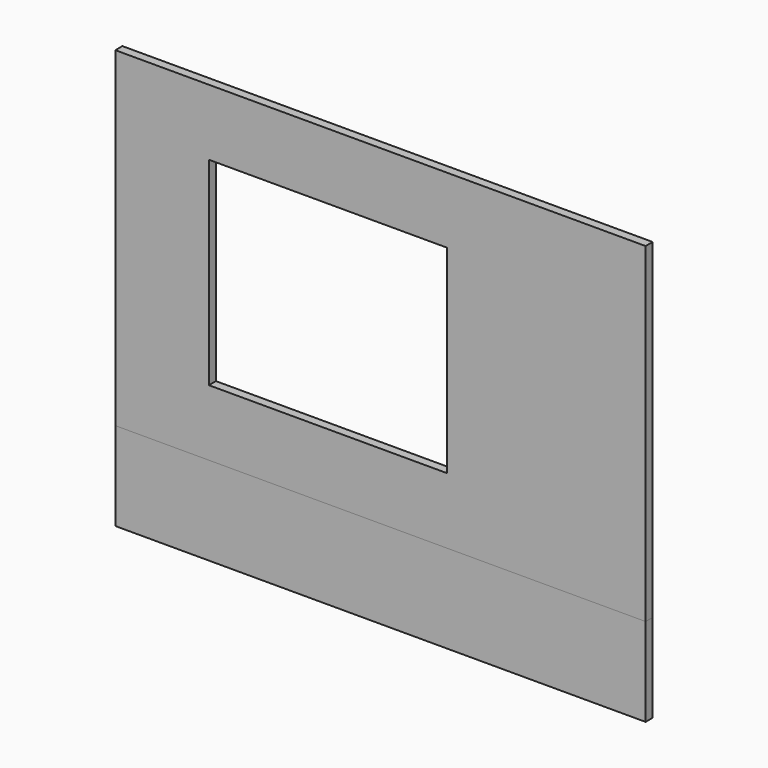
from build123d import *

# Parameters (mm, degrees)
F0_W     = 3000
F0_H     = 1870
F1_DEPTH = 50
F2_W     = 1348
F2_H     = 1123
F3_DEPTH = 50
F4_DEPTH = 500


with BuildPart() as f1:
    # F0 (on Front) → F1 (new body)
    with BuildSketch(Plane.XZ):
        Rectangle(F0_W, F0_H)
    extrude(amount=F1_DEPTH)

    # F2 (on face) → F3 (cut, through all)
    with BuildSketch(Plane.XZ.offset(50)):
        with Locations((-297, 0)):
            Rectangle(F2_W, F2_H)
    extrude(amount=-F3_DEPTH, mode=Mode.SUBTRACT)


with BuildPart() as f4:
    # F4 (new): a face of the model
    f4_faces = [f1.part.faces().sort_by_distance(p)[0] for p in [
        (0, -25, -935),
    ]]
    extrude(f4_faces, amount=F4_DEPTH)


solid = Compound([f1.part, f4.part])
